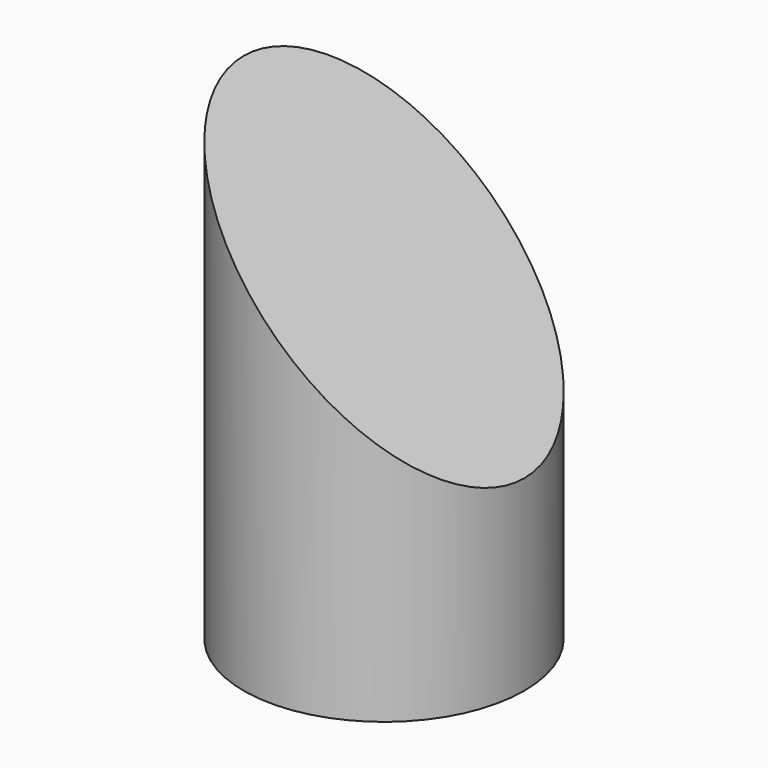
from build123d import *

# Parameters (mm, degrees)
F0_R     = 15
F1_DEPTH = 50
F3_DEPTH = 25


with BuildPart() as f1:
    # F0 (on Top) → F1 (new body)
    with BuildSketch(Plane.XY):
        Circle(F0_R)
    extrude(amount=F1_DEPTH)

    # F2 (on Front) → F3 (intersect, symmetric)
    with BuildSketch(Plane.XZ):
        Polygon((-15, 50), (-15, 0), (15, 0), (15, 20), align=None)
    extrude(amount=F3_DEPTH, both=True, mode=Mode.INTERSECT)


solid = f1.part
